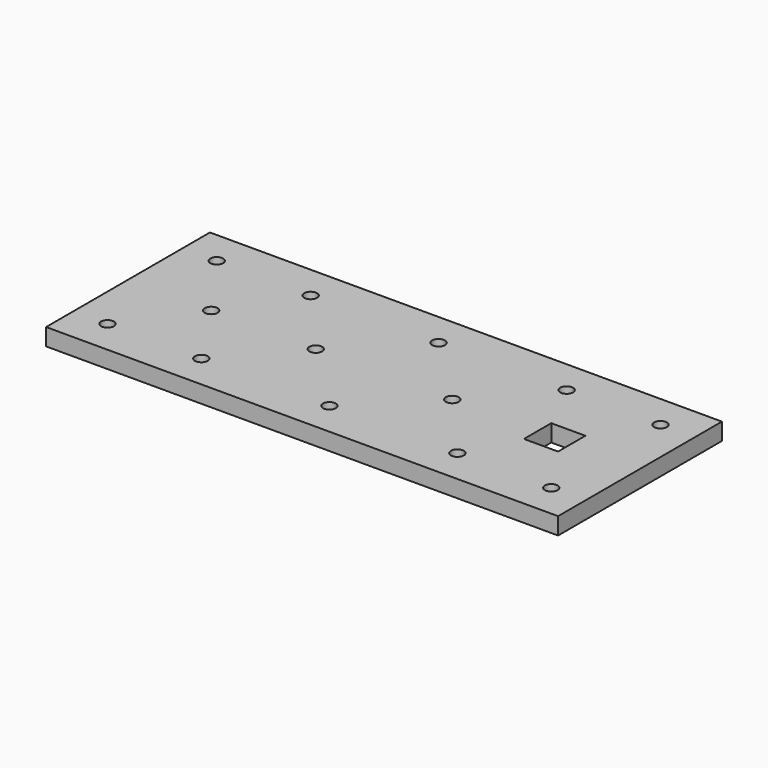
from build123d import *

# Parameters (mm, degrees)
F0_W     = 381
F0_H     = 152.4
F1_DEPTH = 12.7
F3_D     = 9.525
F4_D     = 9.525
F5_W     = 25.4
F5_H     = 25.4
F6_DEPTH = 12.7


with BuildPart() as f1:
    # F0 (on Top) → F1 (new body)
    with BuildSketch(Plane.XY):
        Rectangle(F0_W, F0_H)
    extrude(amount=F1_DEPTH)

    # F3 (through all)
    with Locations(Plane.XY.offset(12.7)):
        with Locations((-165.1, 50.8)):
            Hole(F3_D / 2)

    # F4 (through all)
    with Locations(Plane.XY.offset(12.7)):
        with Locations((-95.25, 50.8), (0, 50.8), (95.25, 50.8), (165.1, 50.8), (128.5875, 0), (50.8, 0), (-50.8, 0), (-128.5875, 0), (-165.1, -50.8), (-95.25, -50.8), (0, -50.8), (95.25, -50.8), (165.1, -50.8)):
            Hole(F4_D / 2)

    # F5 (on face) → F6 (cut)
    with BuildSketch(Plane.XY.offset(12.7)):
        with Locations((127, 0)):
            Rectangle(F5_W, F5_H)
    extrude(amount=-F6_DEPTH, mode=Mode.SUBTRACT)


solid = f1.part
